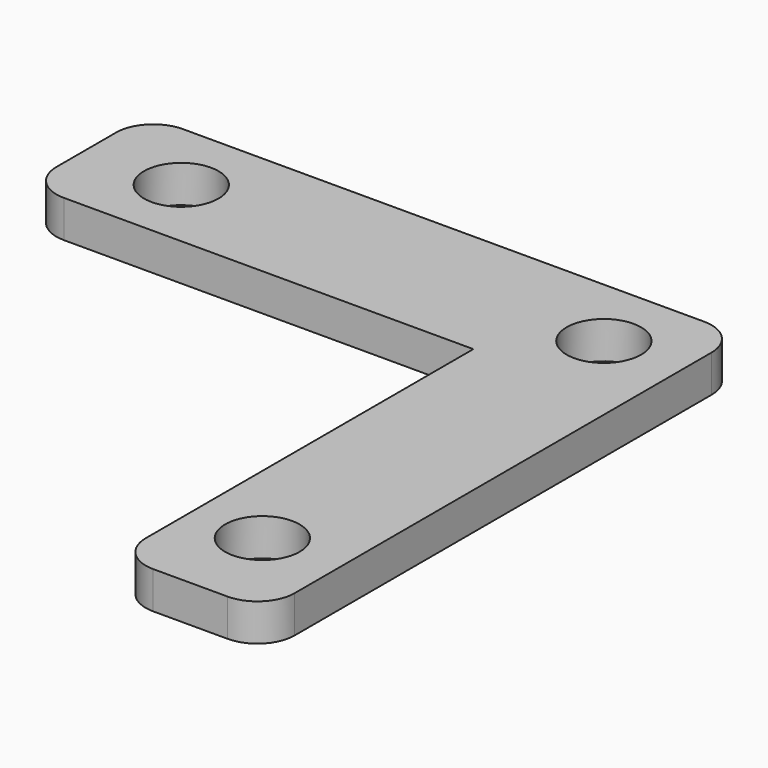
from build123d import *

# Parameters (mm, degrees)
F0_W     = 60
F0_H     = 20
F0_R     = 5
F0_W_2   = 20
F0_H_2   = 60
F1_DEPTH = 5
F2_R     = 5


with BuildPart() as f1:
    # F0 (on Top) → F1 (new body)
    with BuildSketch(Plane.XY):
        with Locations((-10, 0)):
            Rectangle(F0_W, F0_H)
        with Locations((-27.236033, 0)):
            Circle(F0_R, mode=Mode.SUBTRACT)
        with Locations((30, -40)):
            Rectangle(F0_W_2, F0_H_2)
        with Locations((29.537674, -57.349127)):
            Circle(F0_R, mode=Mode.SUBTRACT)
        with Locations((30, 0)):
            Rectangle(F0_W_2, F0_H)
        with Locations((29.537674, 0)):
            Circle(F0_R, mode=Mode.SUBTRACT)
    extrude(amount=F1_DEPTH)

    # F2
    f2_edges = [f1.edges().sort_by_distance(p)[0] for p in [
        (20, -70, 2.5),
        (40, -70, 2.5),
        (40, 10, 2.5),
        (-40, -10, 2.5),
        (-40, 10, 2.5),
    ]]
    fillet(f2_edges, radius=F2_R)


solid = f1.part
